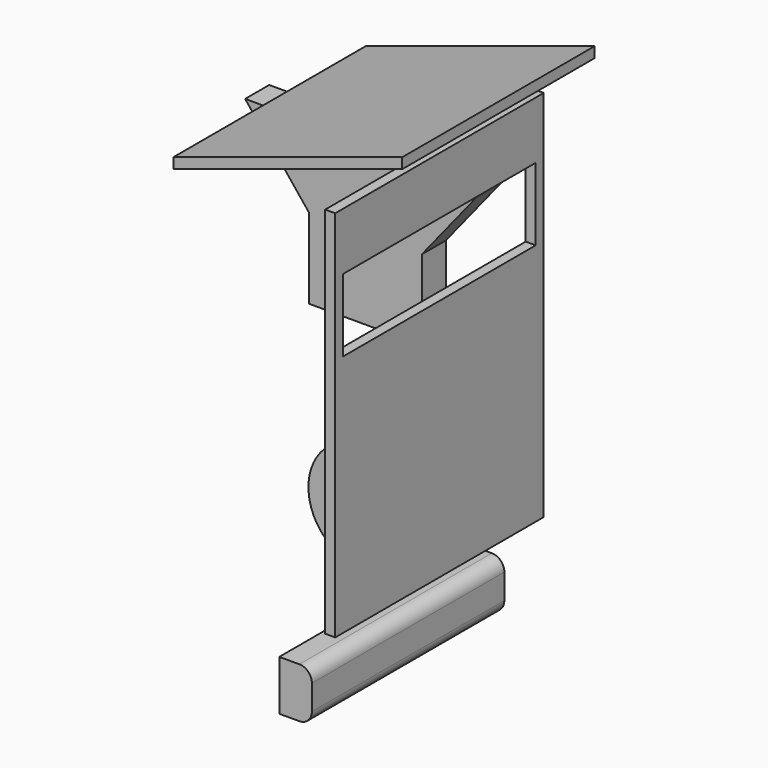
from build123d import *

# Parameters (mm, degrees)
F0_R     = 139.7
F1_DEPTH = 25.4
F2_DEPTH = 609.6
F0_W     = 25.4
F0_H     = 946.15
F3_DEPTH = 660.4
F4_W     = 609.6
F4_H     = 184.15
F5_DEPTH = 27.94
F6_DEPTH = 609.6
F7_DEPTH = 76.2


with BuildPart() as f1:
    # F0 (on Front) → F1 (new body)
    with BuildSketch(Plane.XZ):
        with Locations((-813.82694, 145.694448)):
            Circle(F0_R)
    extrude(amount=F1_DEPTH)


with BuildPart() as f2:
    # F0 (on Front) → F2 (new body)
    with BuildSketch(Plane.XZ):
        with BuildLine():
            Line((-559.954882, 132.386144), (-559.954882, 5.386144))
            Line((-559.954882, 5.386144), (-509.154882, 5.386144))
            ThreePointArc((-509.154882, 5.386144), (-486.704241, 14.685504), (-477.404882, 37.136144))
            Line((-477.404882, 37.136144), (-477.404882, 100.636144))
            ThreePointArc((-477.404882, 100.636144), (-486.704241, 123.086785), (-509.154882, 132.386144))
            Line((-509.154882, 132.386144), (-559.954882, 132.386144))
        make_face()
    extrude(amount=F2_DEPTH)


with BuildPart() as f3:
    # F0 (on Front) → F3 (new body)
    with BuildSketch(Plane.XZ):
        with Locations((-390.310488, 728.703228)):
            Rectangle(F0_W, F0_H)
    extrude(amount=F3_DEPTH)

    # F4 (on face) → F5 (cut)
    with BuildSketch(Plane(origin=(-403.010488, 0, 0), x_dir=(0, -1, 0), z_dir=(-1, 0, 0))):
        with Locations((330.2, 964.249048)):
            Rectangle(F4_W, F4_H)
    extrude(amount=-F5_DEPTH, mode=Mode.SUBTRACT)


with BuildPart() as f6:
    # F0 (on Front) → F6 (new body)
    with BuildSketch(Plane.XZ):
        Polygon((-248.610014, 1348.034387), (-828.374067, 1159.657627), (-828.374067, 1132.950487), (-248.610014, 1321.327247), align=None)
    extrude(amount=F6_DEPTH)


with BuildPart() as f7:
    # F0 (on Front) → F7 (new body)
    with BuildSketch(Plane.XZ):
        Polygon((-463.656493, 993.280113), (-1073.256493, 993.280113), (-911.331493, 792.051333), (-911.331493, 588.851333), (-625.581493, 588.851333), (-625.581493, 792.051333), align=None)
    extrude(amount=F7_DEPTH)


solid = Compound([f1.part, f2.part, f3.part, f6.part, f7.part])
